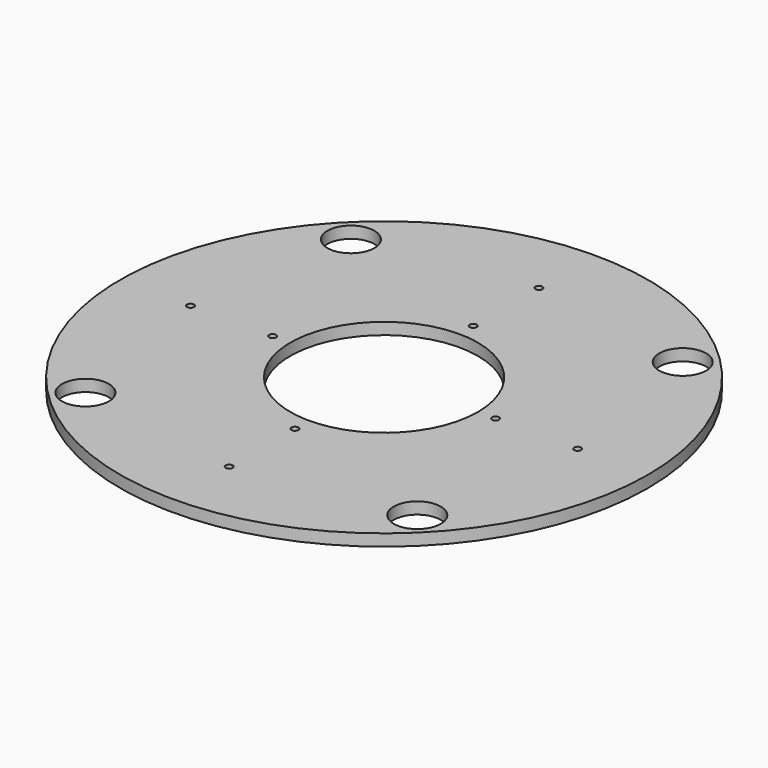
from build123d import *

# Parameters (mm, degrees)
F0_R     = 225
F1_DEPTH = 10
F2_R     = 80
F2_R_2   = 3
F2_R_3   = 20
F3_DEPTH = 10.001


with BuildPart() as f1:
    # F0 (on Top) → F1 (new body)
    with BuildSketch(Plane.XY):
        Circle(F0_R)
    extrude(amount=F1_DEPTH)

    # F2 (on face) → F3 (cut, through all)
    with BuildSketch(Plane.XY.offset(10)):
        Circle(F2_R)
        with Locations((-95, 0)):
            Circle(F2_R_2)
        with Locations((-165, 0)):
            Circle(F2_R_2)
        with Locations((0, -95)):
            Circle(F2_R_2)
        with Locations((0, -165)):
            Circle(F2_R_2)
        with Locations((0, 165)):
            Circle(F2_R_2)
        with Locations((0, 95)):
            Circle(F2_R_2)
        with Locations((95, 0)):
            Circle(F2_R_2)
        with Locations((165, 0)):
            Circle(F2_R_2)
        with Locations((-141.421356, -141.421356)):
            Circle(F2_R_3)
        with Locations((-141.421356, 141.421356)):
            Circle(F2_R_3)
        with Locations((141.421356, -141.421356)):
            Circle(F2_R_3)
        with Locations((141.421356, 141.421356)):
            Circle(F2_R_3)
    extrude(amount=-F3_DEPTH, mode=Mode.SUBTRACT)


solid = f1.part
